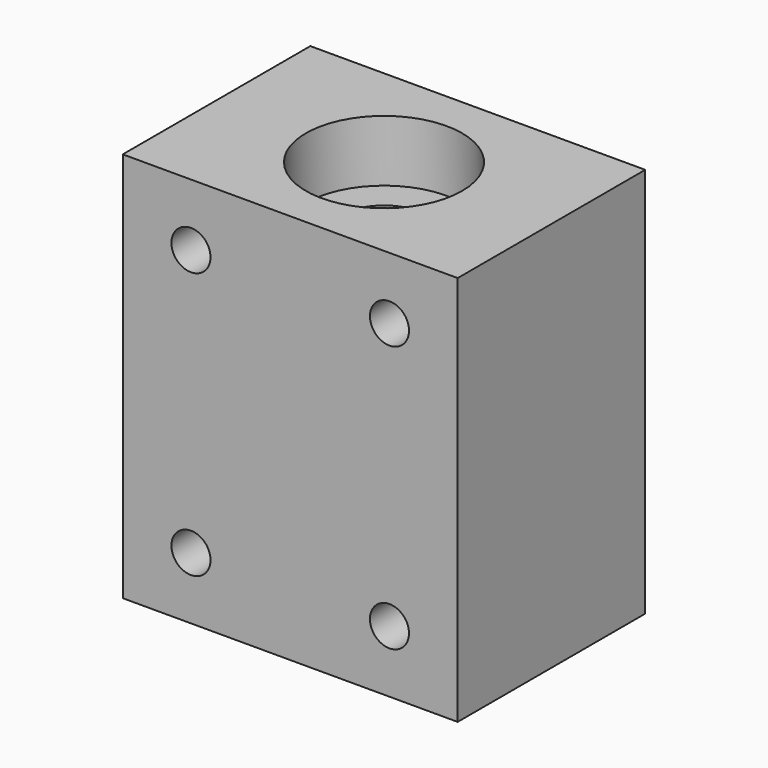
from build123d import *

# Parameters (mm, degrees)
F0_W     = 30
F0_H     = 21
F0_R     = 4
F1_DEPTH = 35
F2_R     = 7
F3_DEPTH = 5.5
F4_R     = 7
F5_DEPTH = 5.5
F6_R     = 1.75
F7_DEPTH = 21


with BuildPart() as f1:
    # F0 (on Top) → F1 (new body)
    with BuildSketch(Plane.XY):
        Rectangle(F0_W, F0_H)
        Circle(F0_R, mode=Mode.SUBTRACT)
    extrude(amount=F1_DEPTH)

    # F2 (on face) → F3 (cut)
    with BuildSketch(Plane.XY.offset(35)):
        Circle(F2_R)
    extrude(amount=-F3_DEPTH, mode=Mode.SUBTRACT)

    # F4 (on face) → F5 (cut)
    with BuildSketch(Plane(origin=(0, 0, 0), x_dir=(1, 0, 0), z_dir=(0, 0, -1))):
        Circle(F4_R)
    extrude(amount=-F5_DEPTH, mode=Mode.SUBTRACT)

    # F6 (on face) → F7 (cut, through all)
    with BuildSketch(Plane.XZ.offset(10.5)):
        with Locations((8.89, 5.562)):
            Circle(F6_R)
        with Locations((-8.89, 5.562)):
            Circle(F6_R)
        with Locations((8.89, 29.438)):
            Circle(F6_R)
        with Locations((-8.89, 29.438)):
            Circle(F6_R)
    extrude(amount=-F7_DEPTH, mode=Mode.SUBTRACT)


solid = f1.part
